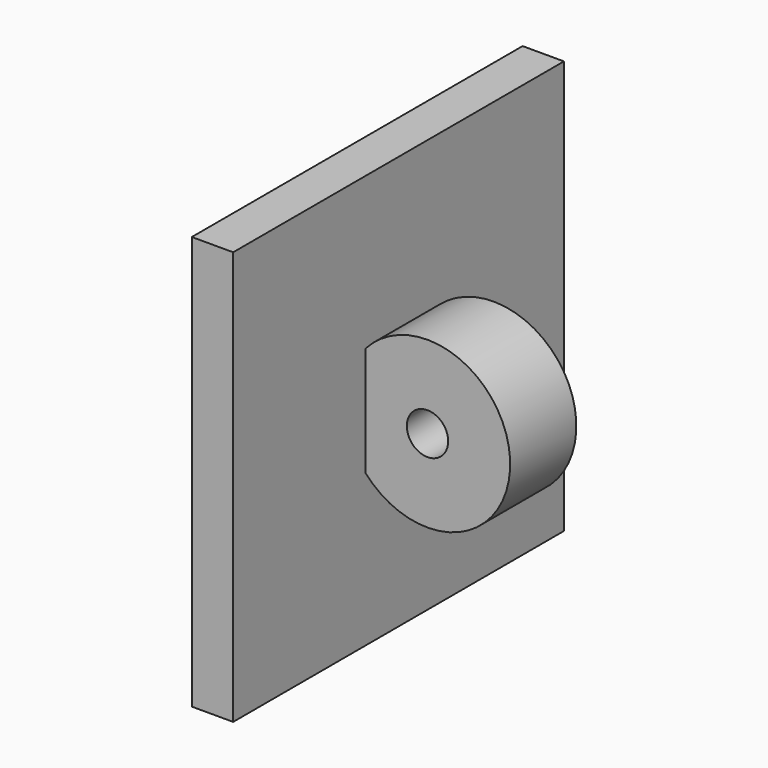
from build123d import *

# Parameters (mm, degrees)
F0_W     = 100
F0_H     = 100
F1_DEPTH = 10
F2_W     = 20
F2_H     = 70
F3_DEPTH = 70
F5_DEPTH = 60.001
F4_R     = 5
F6_DEPTH = 60.001


with BuildPart() as f1:
    # F0 (on Right) → F1 (new body)
    with BuildSketch(Plane.YZ):
        Rectangle(F0_W, F0_H)
    extrude(amount=F1_DEPTH)

    # F2 (on face) → F3 (join)
    with BuildSketch(Plane.YZ.offset(10)):
        Rectangle(F2_W, F2_H)
    extrude(amount=F3_DEPTH)

    # F4 (on face) → F5 (cut, through all)
    with BuildSketch(Plane(origin=(0, 10, 0), x_dir=(-1, 0, 0), z_dir=(0, 1, 0))):
        with BuildLine():
            ThreePointArc((-10, -13.228757), (-45, 0), (-10, 13.228757))
            Line((-10, 13.228757), (-10, 35))
            Line((-10, 35), (-80, 35))
            Line((-80, 35), (-80, -35))
            Line((-80, -35), (-10, -35))
            Line((-10, -35), (-10, -13.228757))
        make_face()
        with BuildLine():
            ThreePointArc((-10, -13.228757), (-45, 0), (-10, 13.228757))
            Line((-10, 13.228757), (-10, 35))
            Line((-10, 35), (-80, 35))
            Line((-80, 35), (-80, -35))
            Line((-80, -35), (-10, -35))
            Line((-10, -35), (-10, -13.228757))
        make_face()
        with BuildLine():
            ThreePointArc((-10, -13.228757), (-45, 0), (-10, 13.228757))
            Line((-10, 13.228757), (-10, 35))
            Line((-10, 35), (-80, 35))
            Line((-80, 35), (-80, -35))
            Line((-80, -35), (-10, -35))
            Line((-10, -35), (-10, -13.228757))
        make_face()
    extrude(amount=-F5_DEPTH, mode=Mode.SUBTRACT)

    # F4 (on face) → F6 (cut, through all)
    with BuildSketch(Plane(origin=(0, 10, 0), x_dir=(-1, 0, 0), z_dir=(0, 1, 0))):
        with Locations((-25, 0)):
            Circle(F4_R)
    extrude(amount=-F6_DEPTH, mode=Mode.SUBTRACT)


solid = f1.part
